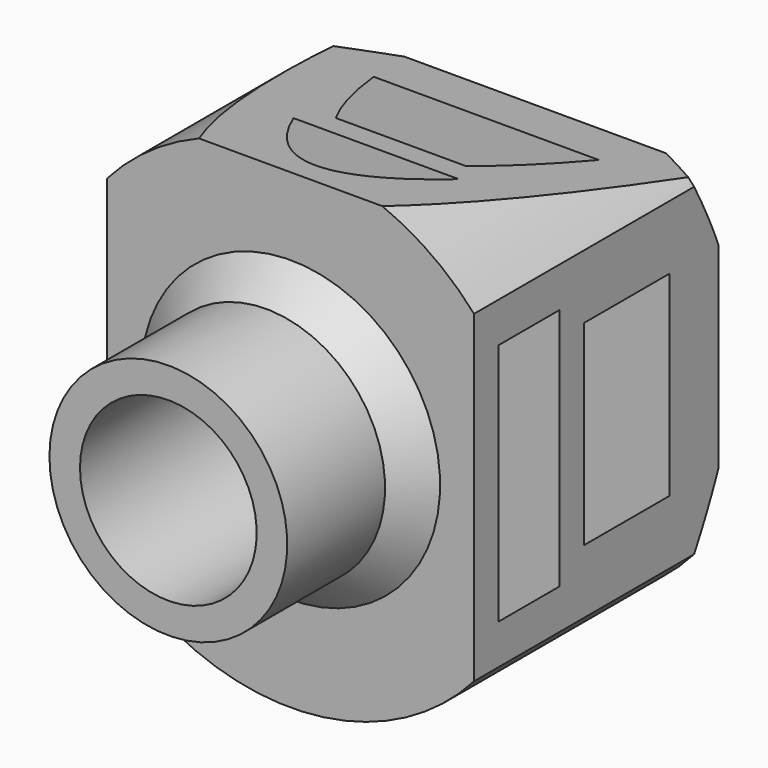
from build123d import *

# Parameters (mm, degrees)
F3_DEPTH = 25.4
F5_DEPTH = 30.481
F6_SIZE  = 2.54


with BuildPart() as f1:
    # F0 (on Top) → F1 (revolve)
    with BuildSketch(Plane.XY):
        Polygon((-9.8806, 0), (-7.3406, 0), (-7.3406, 15.24), (-18.288, 15.24), (-18.288, 21.59), (-6.096, 21.59), (-6.096, 24.13), (-17.272, 24.13), (-17.272, 33.02), (-6.096, 33.02), (-6.096, 38.1), (-17.272, 38.1), (-20.32, 35.56), (-20.32, 12.7), (-9.8806, 12.7), align=None)
    revolve(axis=Axis((0, 12.155764, 0), (0, 1, 0)))

    # F2 (on face) → F3 (cut)
    with BuildSketch(Plane(origin=(0, 38.1, 0), x_dir=(-1, 0, 0), z_dir=(0, 1, 0))):
        with BuildLine():
            Line((-15.24, -13.440417), (-15.24, 13.440417))
            ThreePointArc((-15.24, 13.440417), (-20.32, 0), (-15.24, -13.440417))
        make_face()
        with BuildLine():
            ThreePointArc((15.24, -13.440417), (20.32, 0), (15.24, 13.440417))
            Line((15.24, 13.440417), (15.24, -13.440417))
        make_face()
    extrude(amount=-F3_DEPTH, mode=Mode.SUBTRACT)

    # F4 (on face) → F5 (cut, through all)
    with BuildSketch(Plane.YZ.offset(15.24)):
        Polygon((12.7, 25.189353), (12.7, 18.839353), (38.1, 13.440417), (38.1, 25.189353), align=None)
    extrude(amount=-F5_DEPTH, mode=Mode.SUBTRACT)

    # F6
    f6_edges = [f1.edges().sort_by_distance(p)[0] for p in [
        (9.8806, 12.7, 0),
    ]]
    chamfer(f6_edges, length=F6_SIZE)


solid = f1.part
